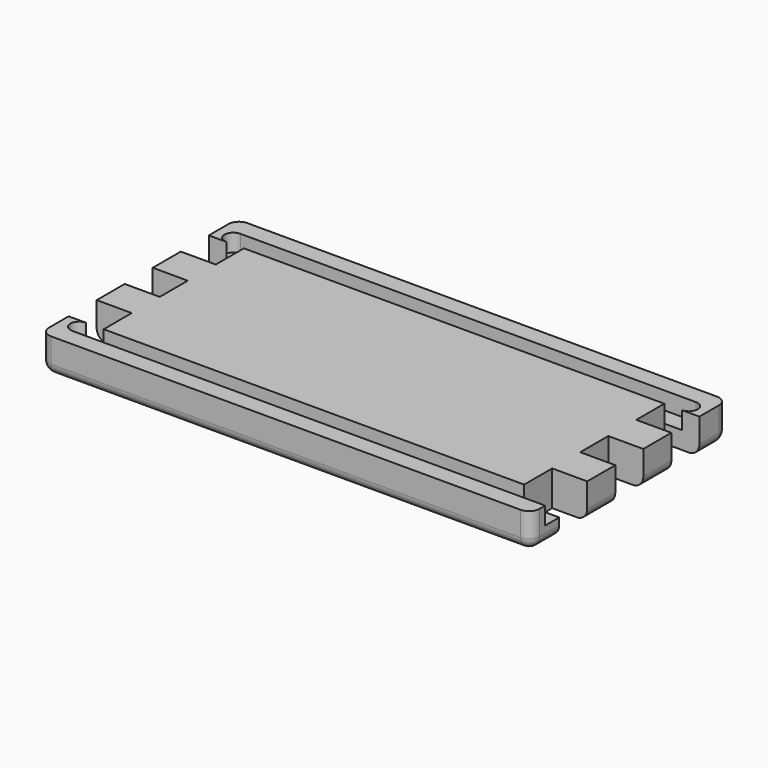
from build123d import *

# Parameters (mm, degrees)
SKETCH_W             = 70
SKETCH_H             = 140
PAD_DEPTH            = 10
FILLET_R             = 3
FILLET001_R          = 3
SKETCH001_W          = 10
SKETCH001_H          = 10
POCKET_DEPTH         = 10.001
POCKET001_DEPTH      = 5
FILLET002_R          = 3
FILLET003_R          = 3
BODY_PLACEMENT_ANGLE = 90


with BuildPart() as part:
    # Sketch → Pad (new body)
    with BuildSketch(Plane.YZ):
        Rectangle(SKETCH_W, SKETCH_H)
    extrude(amount=PAD_DEPTH)

    # Fillet
    fillet_edges = [part.edges().sort_by_distance(p)[0] for p in [
        (10, 0, 70),
    ]]
    fillet(fillet_edges, radius=FILLET_R)

    # Fillet001
    fillet001_edges = [part.edges().sort_by_distance(p)[0] for p in [
        (10, 0, -70),
    ]]
    fillet(fillet001_edges, radius=FILLET001_R)

    # Sketch001 (on Face7 of Fillet001) → Pocket (cut, through all)
    with BuildSketch(Plane(origin=(0, 0, 0), x_dir=(0, 1, 0), z_dir=(-1, 0, 0))):
        with Locations((-20, 65)):
            Rectangle(SKETCH001_W, SKETCH001_H)
        with Locations((0, 65)):
            Rectangle(SKETCH001_W, SKETCH001_H)
        with Locations((20, 65)):
            Rectangle(SKETCH001_W, SKETCH001_H)
        with Locations((-20, -65)):
            Rectangle(SKETCH001_W, SKETCH001_H)
        with Locations((0, -65)):
            Rectangle(SKETCH001_W, SKETCH001_H)
        with Locations((20, -65)):
            Rectangle(SKETCH001_W, SKETCH001_H)
    extrude(amount=-POCKET_DEPTH, mode=Mode.SUBTRACT)

    # Sketch002 (on Face7 of Pocket) → Pocket001 (cut)
    with BuildSketch(Plane(origin=(0, 0, 0), x_dir=(0, 1, 0), z_dir=(-1, 0, 0))):
        with BuildLine():
            ThreePointArc((25, -65), (27.5, -67.5), (30, -65))
            Line((30, -65), (30, 65))
            ThreePointArc((30, 65), (27.5, 67.5), (25, 65))
            Line((25, -65), (25, 65))
        make_face()
        with BuildLine():
            ThreePointArc((-30, -70), (-27.5, -72.5), (-25, -70))
            Line((-25, -70), (-25, 65))
            ThreePointArc((-25, 65), (-27.5, 67.5), (-30, 65))
            Line((-30, -70), (-30, 65))
        make_face()
    extrude(amount=-POCKET001_DEPTH, mode=Mode.SUBTRACT)

    # Fillet002
    fillet002_edges = [part.edges().sort_by_distance(p)[0] for p in [
        (10, -35, 0),
    ]]
    fillet(fillet002_edges, radius=FILLET002_R)

    # Fillet003
    fillet003_edges = [part.edges().sort_by_distance(p)[0] for p in [
        (10, 35, 0),
    ]]
    fillet(fillet003_edges, radius=FILLET003_R)


with BuildPart() as part_1:
    # Body placement: moved
    add(part.part.rotate(Axis((0, 0, 0), (0, 1, 0)), BODY_PLACEMENT_ANGLE))


solid = part_1.part
